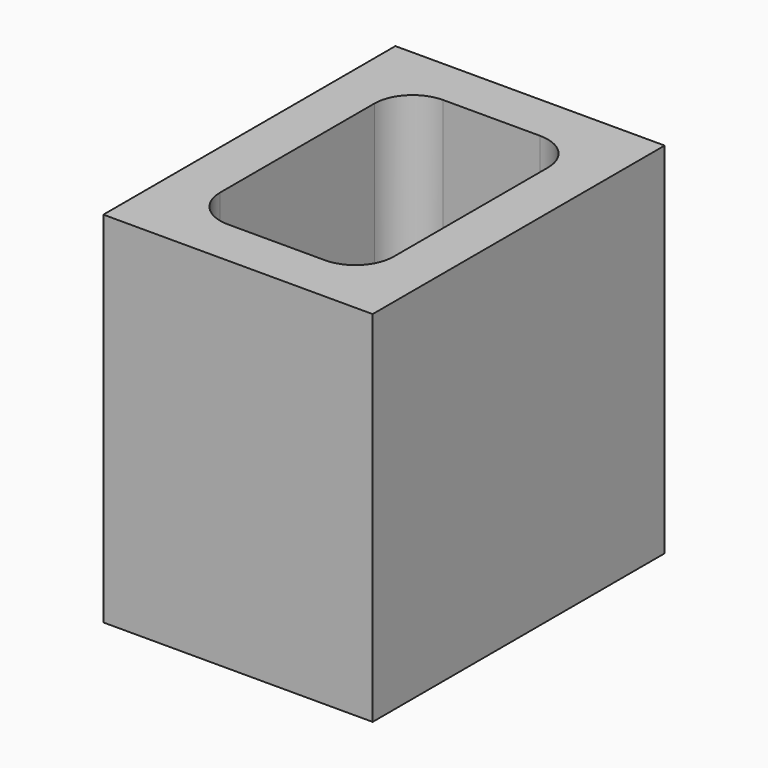
from build123d import *

# Parameters (mm, degrees)
F0_W     = 142.875
F0_H     = 193.675
F1_DEPTH = 95.25


with BuildPart() as f1:
    # F0 (on Top) → F1 (new body, symmetric)
    with BuildSketch(Plane.XY):
        Rectangle(F0_W, F0_H)
        with BuildLine():
            Line((-25.7175, 71.4375), (25.7175, 71.4375))
            ThreePointArc((25.7175, 71.4375), (40.08591, 65.48591), (46.0375, 51.1175))
            Line((46.0375, 51.1175), (46.0375, 0))
            Line((46.0375, 0), (46.0375, -51.1175))
            ThreePointArc((46.0375, -51.1175), (40.08591, -65.48591), (25.7175, -71.4375))
            Line((25.7175, -71.4375), (-25.7175, -71.4375))
            ThreePointArc((-25.7175, -71.4375), (-40.08591, -65.48591), (-46.0375, -51.1175))
            Line((-46.0375, -51.1175), (-46.0375, 0))
            Line((-46.0375, 0), (-46.0375, 51.1175))
            ThreePointArc((-46.0375, 51.1175), (-40.08591, 65.48591), (-25.7175, 71.4375))
        make_face(mode=Mode.SUBTRACT)
    extrude(amount=F1_DEPTH, both=True)


solid = f1.part
